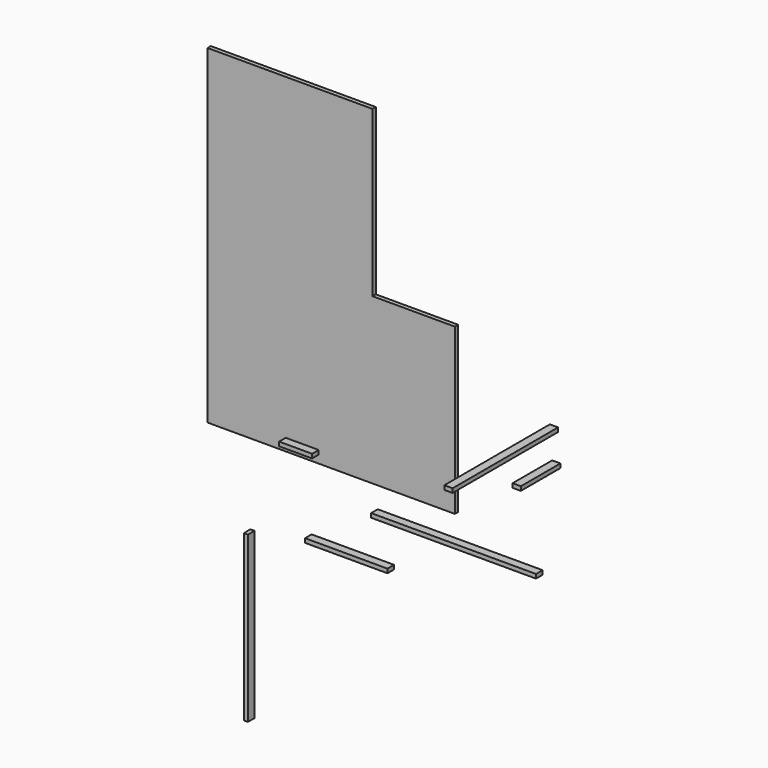
from build123d import *

# Parameters (mm, degrees)
F1_DEPTH = 5
F2_W     = 200
F2_H     = 10
F2_W_2   = 100
F2_W_3   = 40
F2_W_4   = 10
F2_H_2   = 160
F2_H_3   = 60
F3_DEPTH = 5
F4_W     = 10
F4_H     = 50
F5_DEPTH = 5


with BuildPart() as f1:
    # F0 (on Front) → F1 (new body)
    with BuildSketch(Plane.XZ):
        Polygon((97.539906, 328.742468), (-102.460094, 328.742468), (-102.460094, -71.257532), (197.539906, -71.257532), (197.539906, 128.742468), (97.539906, 128.742468), align=None)
    extrude(amount=F1_DEPTH)


with BuildPart() as f3:
    # F2 (on Top) → F3 (new body)
    with BuildSketch(Plane.XY):
        with Locations((325.965008, -162.567566)):
            Rectangle(F2_W, F2_H)
        with Locations((259.266603, -241.885046)):
            Rectangle(F2_W_2, F2_H)
        with Locations((86.354267, -102.533112)):
            Rectangle(F2_W_3, F2_H)
        with Locations((249.45205, 0.337453)):
            Rectangle(F2_W_4, F2_H_2)
        with Locations((297.336941, -6.008507)):
            Rectangle(F2_W_4, F2_H_3)
    extrude(amount=F3_DEPTH)


with BuildPart() as f5:
    # F4 (on Right) → F5 (new body)
    with BuildSketch(Plane.YZ):
        with Locations((-73.19052, -301.213479)):
            Rectangle(F4_W, F4_H)
        with Locations((-73.19052, -251.213479)):
            Rectangle(F4_W, F4_H)
        with Locations((-73.19052, -201.213479)):
            Rectangle(F4_W, F4_H)
        with Locations((-73.19052, -151.213479)):
            Rectangle(F4_W, F4_H)
    extrude(amount=F5_DEPTH)


solid = Compound([f1.part, f3.part, f5.part])
